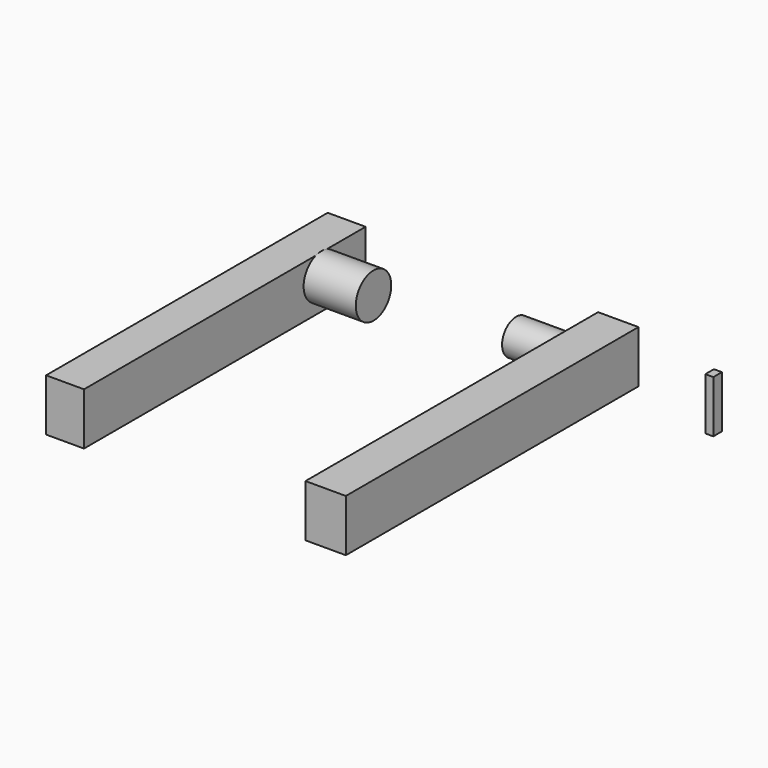
from build123d import *

# Parameters (mm, degrees)
F0_W     = 3.8959383965
F0_H     = 5.2510239184
F1_DEPTH = 25.4
F0_W_2   = 19.6490138769
F0_H_2   = 178.0268549919
F0_W_3   = 18.4549018741
F0_H_3   = 171.3291481137
F2_R     = 8.5743267836
F2_R_2   = 6.4696583103
F3_DEPTH = 25.4
F4_R     = 10.7818311597
F5_DEPTH = 25.4


with BuildPart() as f1:
    # F0 (on Top) → F1 (new body)
    with BuildSketch(Plane.XY):
        with Locations((121.5359270573, 64.1133766621)):
            Rectangle(F0_W, F0_H)
    extrude(amount=F1_DEPTH)


with BuildPart() as f1b:
    # F0 (on Top) → F1, piece 2 (new body)
    with BuildSketch(Plane.XY):
        with Locations((65.7225474715, -13.1275802851)):
            Rectangle(F0_W_2, F0_H_2)
    extrude(amount=F1_DEPTH)

    # F2 (on face) → F3 (join)
    with BuildSketch(Plane(origin=(55.8980405331, 0, 0), x_dir=(0, -1, 0), z_dir=(-1, 0, 0))):
        with Locations((-57.7898696065, 13.9805600047)):
            Circle(F2_R)
        with Locations((-57.7898696065, 13.9805600047)):
            Circle(F2_R_2, mode=Mode.SUBTRACT)
    extrude(amount=F3_DEPTH)


with BuildPart() as f1c:
    # F0 (on Top) → F1, piece 3 (new body)
    with BuildSketch(Plane.XY):
        with Locations((-66.2300996482, -10.0965462625)):
            Rectangle(F0_W_3, F0_H_3)
    extrude(amount=F1_DEPTH)

    # F4 (on face) → F5 (join)
    with BuildSketch(Plane.YZ.offset(-57.0026487112)):
        with Locations((48.6339202338, 15.1453325418)):
            Circle(F4_R)
    extrude(amount=F5_DEPTH)


solid = Compound([f1.part, f1b.part, f1c.part])
